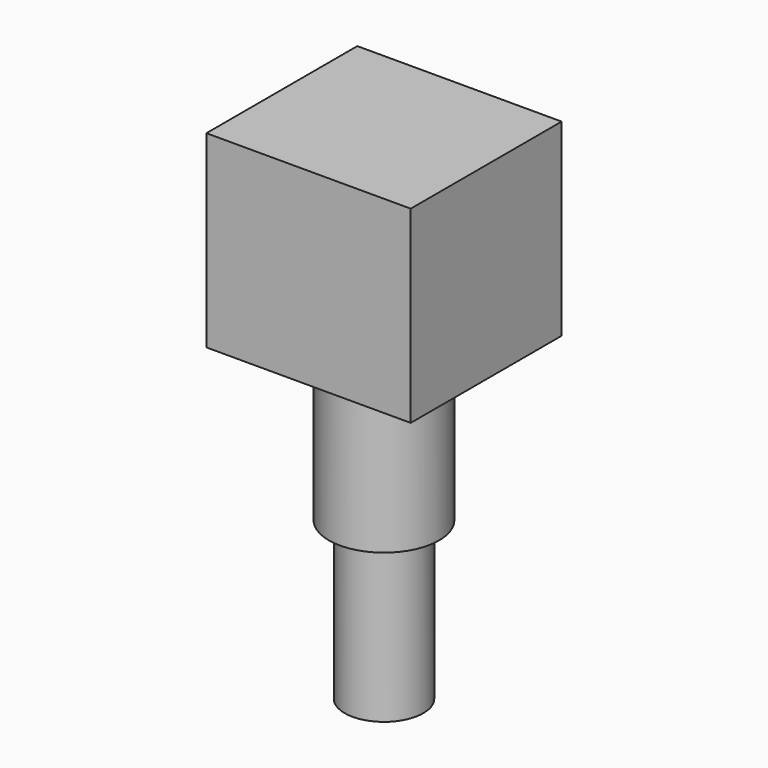
from build123d import *

# Parameters (mm, degrees)
SKETCH029_R             = 3.5
PAD029_DEPTH            = 10
SKETCH030_R             = 2.5
PAD030_DEPTH            = 10
SKETCH031_W             = 13
SKETCH031_H             = 12
PAD031_DEPTH            = 12
BODY011_PLACEMENT_ANGLE = 180


with BuildPart() as part:
    # Sketch029 → Pad029 (new body)
    with BuildSketch(Plane.XY):
        Circle(SKETCH029_R)
    extrude(amount=PAD029_DEPTH)

    # Sketch030 (on Face3 of Pad029) → Pad030 (join)
    with BuildSketch(Plane.XY.offset(10)):
        Circle(SKETCH030_R)
    extrude(amount=PAD030_DEPTH)

    # Sketch031 (on Face2 of Pad030) → Pad031 (join)
    with BuildSketch(Plane(origin=(0, 0, 0), x_dir=(1, 0, 0), z_dir=(0, 0, -1))):
        Rectangle(SKETCH031_W, SKETCH031_H)
    extrude(amount=PAD031_DEPTH)


with BuildPart() as part_1:
    # Body011 placement: moved
    add(part.part.moved(Location((-26, 13.5, 1))).rotate(Axis((-26, 13.5, 1), (0, 1, 0)), BODY011_PLACEMENT_ANGLE))


solid = part_1.part
